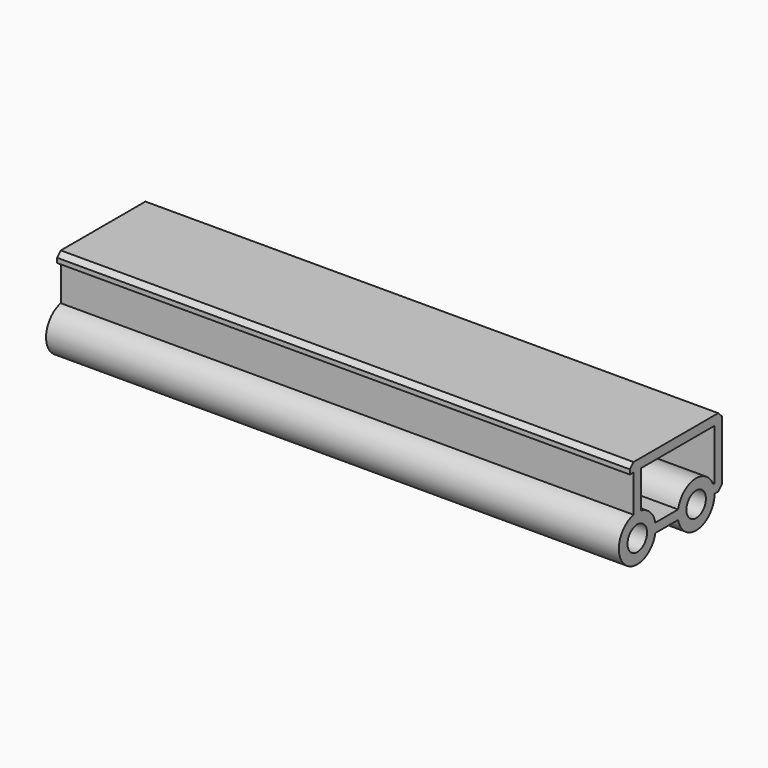
from build123d import *

# Parameters (mm, degrees)
CYLINDER077_R         = 2.65
CYLINDER077_DEPTH     = 124.5
CYLINDER078_R         = 2.65
CYLINDER078_DEPTH     = 124.5
BOX065_W              = 124.5
BOX065_H              = 2
BOX065_DEPTH          = 10
BOX066_W              = 124.5
BOX066_H              = 2
BOX066_DEPTH          = 15
BOX067_W              = 124.5
BOX067_H              = 25
BOX067_DEPTH          = 2
CHAMFER006057005_SIZE = 1
BOX069_W              = 124.5
BOX069_H              = 8
BOX069_DEPTH          = 2
BOX068_W              = 124.5
BOX068_H              = 2
BOX068_DEPTH          = 2
CYLINDER076_R         = 5
CYLINDER076_DEPTH     = 124.5
CYLINDER075_R         = 5
CYLINDER075_DEPTH     = 124.5


with BuildPart() as cylinder077:
    # Cylinder077 → Cylinder077 (new body)
    with BuildSketch(Plane(origin=(15, 8, 15), x_dir=(0, 0, -1), z_dir=(1, 0, 0))):
        Circle(CYLINDER077_R)
    extrude(amount=CYLINDER077_DEPTH)


with BuildPart() as fusion020006007003002009018004_body:
    # Cylinder078 → Cylinder078 (new body)
    with BuildSketch(Plane(origin=(15, -8, 15), x_dir=(0, 0, -1), z_dir=(1, 0, 0))):
        Circle(CYLINDER078_R)
    extrude(amount=CYLINDER078_DEPTH)

    # Fusion020006007003002009018004004020010005021: union Cylinder077
    add(cylinder077.part)


with BuildPart() as cube065:
    # Box065 → Box065 (new body)
    with BuildSketch(Plane(origin=(15, -9, 19), x_dir=(1, 0, 0), z_dir=(0, 0, 1))):
        with Locations((62.25, 1)):
            Rectangle(BOX065_W, BOX065_H)
    extrude(amount=BOX065_DEPTH)


with BuildPart() as cube066:
    # Box066 → Box066 (new body)
    with BuildSketch(Plane(origin=(15, 13, 15), x_dir=(1, 0, 0), z_dir=(0, 0, 1))):
        with Locations((62.25, 1)):
            Rectangle(BOX066_W, BOX066_H)
    extrude(amount=BOX066_DEPTH)


with BuildPart() as chamfer006057005:
    # Box067 → Box067 (new body)
    with BuildSketch(Plane(origin=(15, -10, 28), x_dir=(1, 0, 0), z_dir=(0, 0, 1))):
        with Locations((62.25, 12.5)):
            Rectangle(BOX067_W, BOX067_H)
    extrude(amount=BOX067_DEPTH)

    # Fusion020006007003002009018004004020010005019: union Cube066
    add(cube066.part)

    # Chamfer006057005
    chamfer006057005_edges = [chamfer006057005.edges().sort_by_distance(p)[0] for p in [
        (77.25, -10, 30),
        (77.25, 15, 30),
        (77.25, 15, 15),
    ]]
    chamfer(chamfer006057005_edges, length=CHAMFER006057005_SIZE)


with BuildPart() as cube069:
    # Box069 → Box069 (new body)
    with BuildSketch(Plane(origin=(15, -4, 14), x_dir=(1, 0, 0), z_dir=(0, 0, 1))):
        with Locations((62.25, 4)):
            Rectangle(BOX069_W, BOX069_H)
    extrude(amount=BOX069_DEPTH)


with BuildPart() as cube068:
    # Box068 → Box068 (new body)
    with BuildSketch(Plane(origin=(15, 12, 15), x_dir=(1, 0, 0), z_dir=(0, 0, 1))):
        with Locations((62.25, 1)):
            Rectangle(BOX068_W, BOX068_H)
    extrude(amount=BOX068_DEPTH)


with BuildPart() as cylinder076:
    # Cylinder076 → Cylinder076 (new body)
    with BuildSketch(Plane(origin=(15, 8, 15), x_dir=(0, 0, -1), z_dir=(1, 0, 0))):
        Circle(CYLINDER076_R)
    extrude(amount=CYLINDER076_DEPTH)


with BuildPart() as obj1:
    # Cylinder075 → Cylinder075 (new body)
    with BuildSketch(Plane(origin=(15, -8, 15), x_dir=(0, 0, -1), z_dir=(1, 0, 0))):
        Circle(CYLINDER075_R)
    extrude(amount=CYLINDER075_DEPTH)

    # Fusion020006007003002009018004004020010005020: union Cube065, Chamfer006057005, Cube069, Cube068, Cylinder076
    add(cube065.part)
    add(chamfer006057005.part)
    add(cube069.part)
    add(cube068.part)
    add(cylinder076.part)

    # Cut019003010004002005007003: cut Fusion020006007003002009018004 body
    add(fusion020006007003002009018004_body.part, mode=Mode.SUBTRACT)


solid = obj1.part
